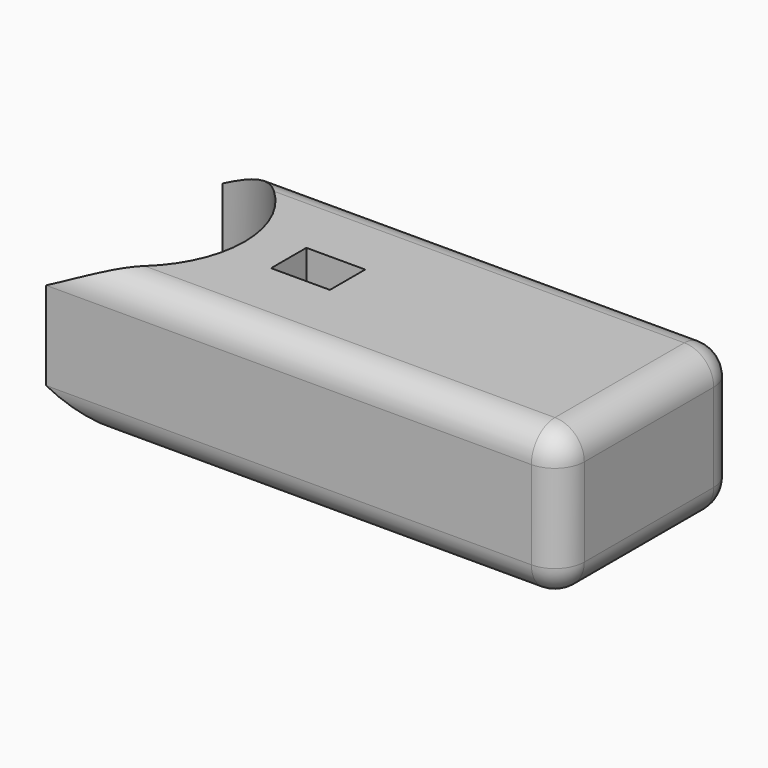
from build123d import *

# Parameters (mm, degrees)
F1_DEPTH = 25.4
F2_W     = 10.16
F2_H     = 7.62
F3_DEPTH = 12.7
F4_R     = 5.08


with BuildPart() as f1:
    # F0 (on Top) → F1 (new body)
    with BuildSketch(Plane.XY):
        with BuildLine():
            ThreePointArc((0, 19.05), (19.05, 0), (0, -19.05))
            Line((0, -19.05), (88.9, -19.05))
            Line((88.9, -19.05), (88.9, 19.05))
            Line((88.9, 19.05), (0, 19.05))
        make_face()
    extrude(amount=F1_DEPTH)

    # F2 (on face) → F3 (cut)
    with BuildSketch(Plane.XY.offset(25.4)):
        with Locations((31.75, 0)):
            Rectangle(F2_W, F2_H)
    extrude(amount=-F3_DEPTH, mode=Mode.SUBTRACT)

    # F4
    f4_edges = [f1.edges().sort_by_distance(p)[0] for p in [
        (44.45, -19.05, 25.4),
        (44.45, 19.05, 25.4),
        (44.45, 19.05, 0),
        (44.45, -19.05, 0),
        (88.9, -19.05, 12.7),
        (88.9, 19.05, 12.7),
        (88.9, 0, 0),
        (88.9, 0, 25.4),
    ]]
    fillet(f4_edges, radius=F4_R)


solid = f1.part
